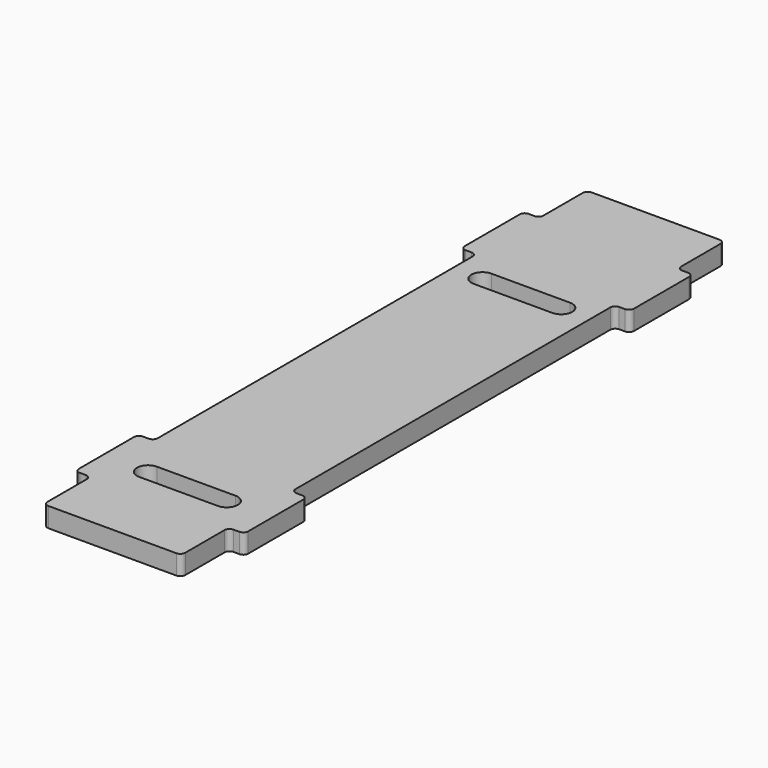
from build123d import *

# Parameters (mm, degrees)
F1_DEPTH = 6.35


with BuildPart() as f1:
    # F0 (on Top) → F1 (new body)
    with BuildSketch(Plane.XY):
        with BuildLine():
            ThreePointArc((0, 1.6002), (0.468688, 0.468688), (1.6002, 0))
            Line((1.6002, 0), (42.8498, 0))
            ThreePointArc((42.8498, 0), (43.981312, 0.468688), (44.45, 1.6002))
            Line((44.45, 1.6002), (44.45, 17.4498))
            ThreePointArc((44.45, 17.4498), (44.918688, 18.581312), (46.0502, 19.05))
            Line((46.0502, 19.05), (47.9298, 19.05))
            ThreePointArc((47.9298, 19.05), (49.061312, 19.518688), (49.53, 20.6502))
            Line((49.53, 20.6502), (49.53, 42.8498))
            ThreePointArc((49.53, 42.8498), (49.061312, 43.981312), (47.9298, 44.45))
            Line((47.9298, 44.45), (46.0502, 44.45))
            ThreePointArc((46.0502, 44.45), (44.918688, 44.918688), (44.45, 46.0502))
            Line((44.45, 46.0502), (44.45, 172.9994))
            ThreePointArc((44.45, 172.9994), (44.918688, 174.130912), (46.0502, 174.5996))
            Line((46.0502, 174.5996), (47.9298, 174.5996))
            ThreePointArc((47.9298, 174.5996), (49.061312, 175.068288), (49.53, 176.1998))
            Line((49.53, 176.1998), (49.53, 198.3994))
            ThreePointArc((49.53, 198.3994), (49.061312, 199.530912), (47.9298, 199.9996))
            Line((47.9298, 199.9996), (46.0502, 199.9996))
            ThreePointArc((46.0502, 199.9996), (44.918688, 200.468288), (44.45, 201.5998))
            Line((44.45, 201.5998), (44.45, 217.4494))
            ThreePointArc((44.45, 217.4494), (43.981312, 218.580912), (42.8498, 219.0496))
            Line((42.8498, 219.0496), (1.6002, 219.0496))
            ThreePointArc((1.6002, 219.0496), (0.468688, 218.580912), (0, 217.4494))
            Line((0, 217.4494), (0, 201.5998))
            ThreePointArc((0, 201.5998), (-0.468688, 200.468288), (-1.6002, 199.9996))
            Line((-1.6002, 199.9996), (-3.4798, 199.9996))
            ThreePointArc((-3.4798, 199.9996), (-4.611312, 199.530912), (-5.08, 198.3994))
            Line((-5.08, 198.3994), (-5.08, 176.1998))
            ThreePointArc((-5.08, 176.1998), (-4.611312, 175.068288), (-3.4798, 174.5996))
            Line((-3.4798, 174.5996), (-1.6002, 174.5996))
            ThreePointArc((-1.6002, 174.5996), (-0.468688, 174.130912), (0, 172.9994))
            Line((0, 172.9994), (0, 46.0502))
            ThreePointArc((0, 46.0502), (-0.468688, 44.918688), (-1.6002, 44.45))
            Line((-1.6002, 44.45), (-3.4798, 44.45))
            ThreePointArc((-3.4798, 44.45), (-4.611312, 43.981312), (-5.08, 42.8498))
            Line((-5.08, 42.8498), (-5.08, 20.6502))
            ThreePointArc((-5.08, 20.6502), (-4.611312, 19.518688), (-3.4798, 19.05))
            Line((-3.4798, 19.05), (-1.6002, 19.05))
            ThreePointArc((-1.6002, 19.05), (-0.468688, 18.581312), (0, 17.4498))
            Line((0, 17.4498), (0, 1.6002))
        make_face()
        with BuildLine():
            ThreePointArc((9.525, 26.67), (5.9563, 30.2387), (9.525, 33.8074))
            Line((9.525, 33.8074), (34.925, 33.8074))
            ThreePointArc((34.925, 33.8074), (37.448452, 32.762152), (38.4937, 30.2387))
            ThreePointArc((38.4937, 30.2387), (37.448452, 27.715248), (34.925, 26.67))
            Line((34.925, 26.67), (9.525, 26.67))
        make_face(mode=Mode.SUBTRACT)
        with BuildLine():
            ThreePointArc((9.525, 161.544), (5.9563, 165.1127), (9.525, 168.6814))
            Line((9.525, 168.6814), (34.925, 168.6814))
            ThreePointArc((34.925, 168.6814), (37.448452, 167.636152), (38.4937, 165.1127))
            ThreePointArc((38.4937, 165.1127), (37.448452, 162.589248), (34.925, 161.544))
            Line((34.925, 161.544), (9.525, 161.544))
        make_face(mode=Mode.SUBTRACT)
    extrude(amount=F1_DEPTH)


solid = f1.part
